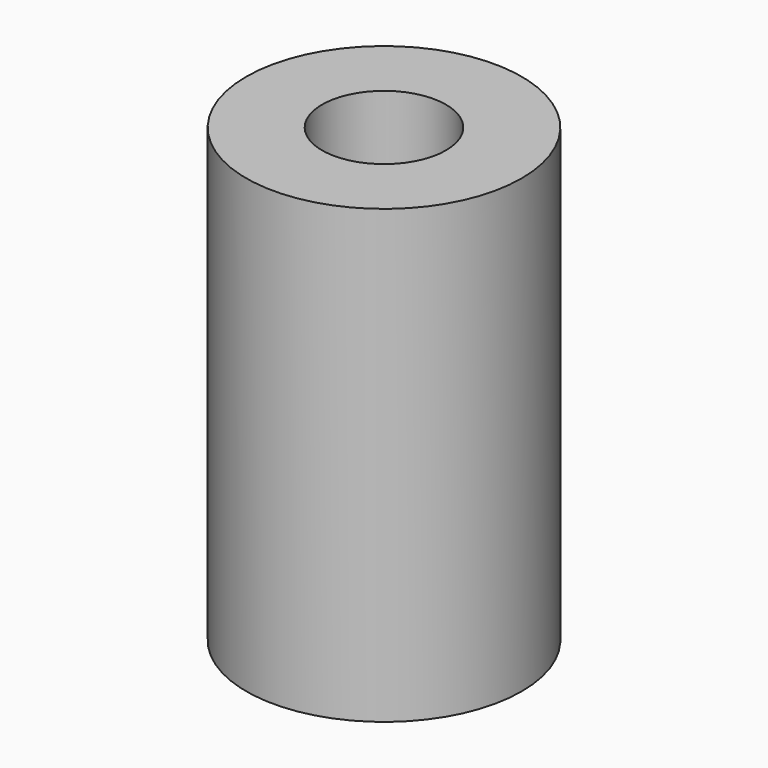
from build123d import *

# Parameters (mm, degrees)
SKETCH_R     = 5
PAD_DEPTH    = 16.4
SKETCH001_R  = 2.25
POCKET_DEPTH = 16.401


with BuildPart() as part:
    # Sketch → Pad (new body)
    with BuildSketch(Plane.XY):
        Circle(SKETCH_R)
    extrude(amount=PAD_DEPTH)

    # Sketch001 → Pocket (cut, through all)
    with BuildSketch(Plane.XY.offset(16.4)):
        Circle(SKETCH001_R)
    extrude(amount=-POCKET_DEPTH, mode=Mode.SUBTRACT)


solid = part.part
